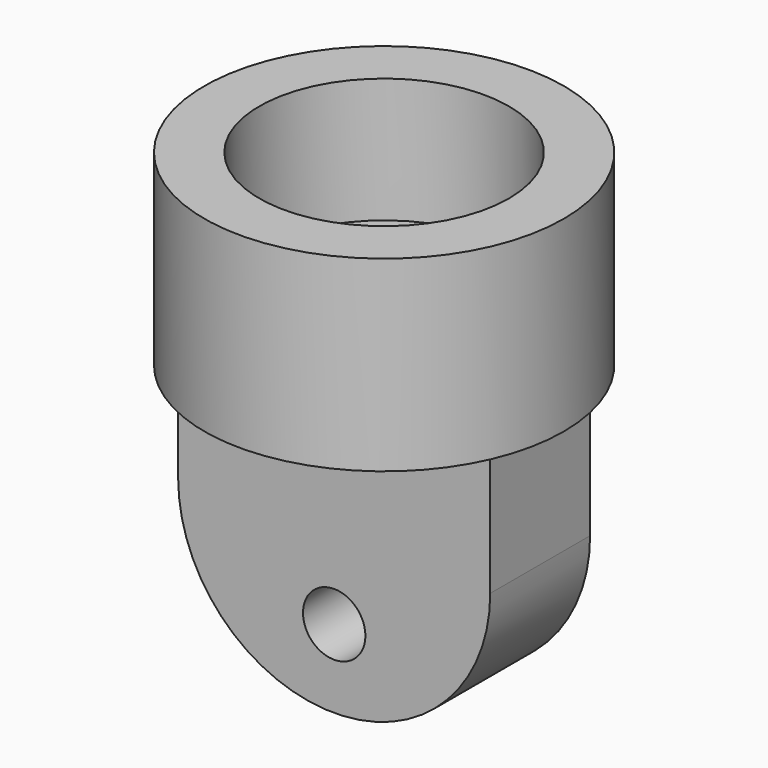
from build123d import *

# Parameters (mm, degrees)
F0_R     = 9.144
F1_DEPTH = 9.525
F2_R     = 6.35
F3_DEPTH = 6.35
F4_W     = 15.875
F4_H     = 6.35
F5_DEPTH = 6.35
F6_R     = 1.5875
F7_DEPTH = 3.175


with BuildPart() as f1:
    # F0 (on Top) → F1 (new body)
    with BuildSketch(Plane.XY):
        Circle(F0_R)
    extrude(amount=F1_DEPTH)

    # F2 (on face) → F3 (cut)
    with BuildSketch(Plane.XY.offset(9.525)):
        Circle(F2_R)
    extrude(amount=-F3_DEPTH, mode=Mode.SUBTRACT)

    # F4 (on face) → F5 (join)
    with BuildSketch(Plane(origin=(0, 0, 0), x_dir=(1, 0, 0), z_dir=(0, 0, -1))):
        Rectangle(F4_W, F4_H)
    extrude(amount=F5_DEPTH)

    # F6 (on Front) → F7 (join, symmetric)
    with BuildSketch(Plane.XZ):
        with BuildLine():
            Line((7.9375, -6.35), (-7.9375, -6.35))
            ThreePointArc((-7.9375, -6.35), (0, -14.2875), (7.9375, -6.35))
        make_face()
        with Locations((0, -10.31875)):
            Circle(F6_R, mode=Mode.SUBTRACT)
    extrude(amount=F7_DEPTH, both=True)


solid = f1.part
